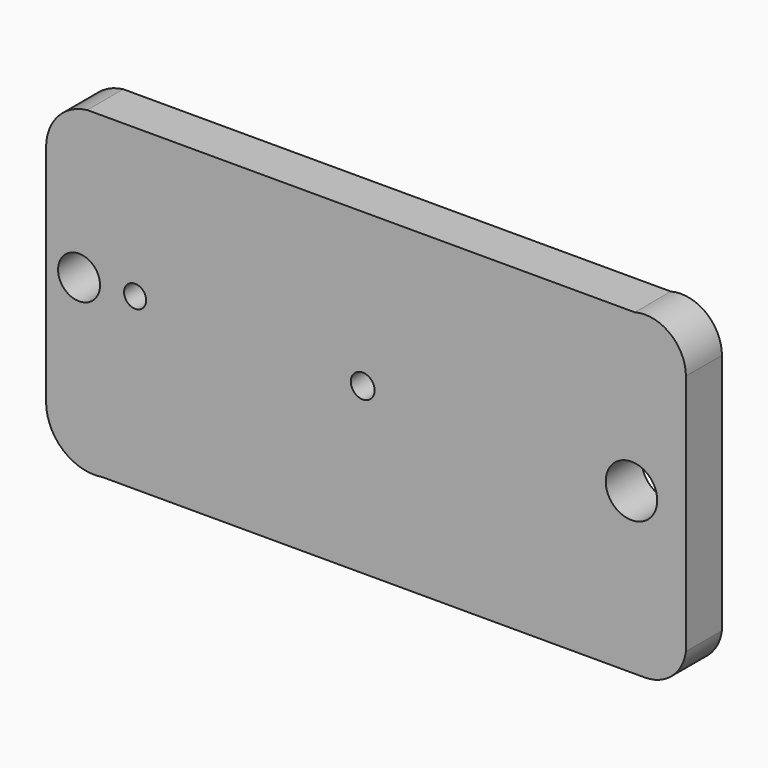
from build123d import *

# Parameters (mm, degrees)
F1_DEPTH = 6.35
F2_R     = 2.960352
F2_R_2   = 1.560241
F2_R_3   = 1.677209
F2_R_4   = 3.633129
F3_DEPTH = 25.4


with BuildPart() as f1:
    # F0 (on Front) → F1 (new body)
    with BuildSketch(Plane.XZ):
        with BuildLine():
            ThreePointArc((-38.842063, 15.81593), (-42.991543, 13.668762), (-44.656746, 9.303489))
            Line((-44.656746, 9.303489), (-44.656746, -22.328373))
            ThreePointArc((-44.656746, -22.328373), (-42.258861, -27.52528), (-36.748778, -29.0734))
            Line((-36.748778, -29.0734), (39.772414, -29.0734))
            ThreePointArc((39.772414, -29.0734), (43.645182, -27.61202), (45.587093, -23.956483))
            Line((45.587093, -23.956483), (45.587093, 10.233837))
            ThreePointArc((45.587093, 10.233837), (43.350919, 14.793079), (38.376894, 15.81593))
            Line((38.376894, 15.81593), (-38.842063, 15.81593))
        make_face()
    extrude(amount=F1_DEPTH)

    # F2 (on face) → F3 (cut)
    with BuildSketch(Plane.XZ.offset(6.35)):
        with Locations((-40.005002, -5.349506)):
            Circle(F2_R)
        with Locations((-32.097034, -5.116919)):
            Circle(F2_R_2)
        with Locations((0, -5.81468)):
            Circle(F2_R_3)
        with Locations((37.911717, -6.512442)):
            Circle(F2_R_4)
    extrude(amount=-F3_DEPTH, mode=Mode.SUBTRACT)


solid = f1.part
